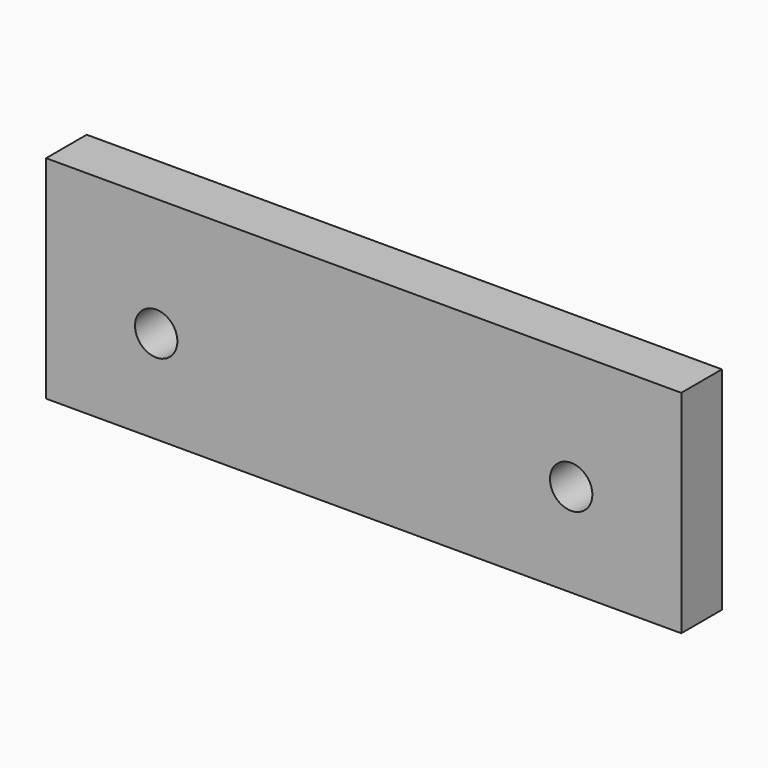
from build123d import *

# Parameters (mm, degrees)
F0_W     = 150
F0_H     = 50
F1_DEPTH = 12
F2_D     = 10


with BuildPart() as f1:
    # F0 (on Front) → F1 (new body)
    with BuildSketch(Plane.XZ):
        Rectangle(F0_W, F0_H)
    extrude(amount=-F1_DEPTH)

    # F2 (through all)
    with Locations(Plane.XZ):
        with Locations((-49, -3), (49, -3)):
            Hole(F2_D / 2)


solid = f1.part
